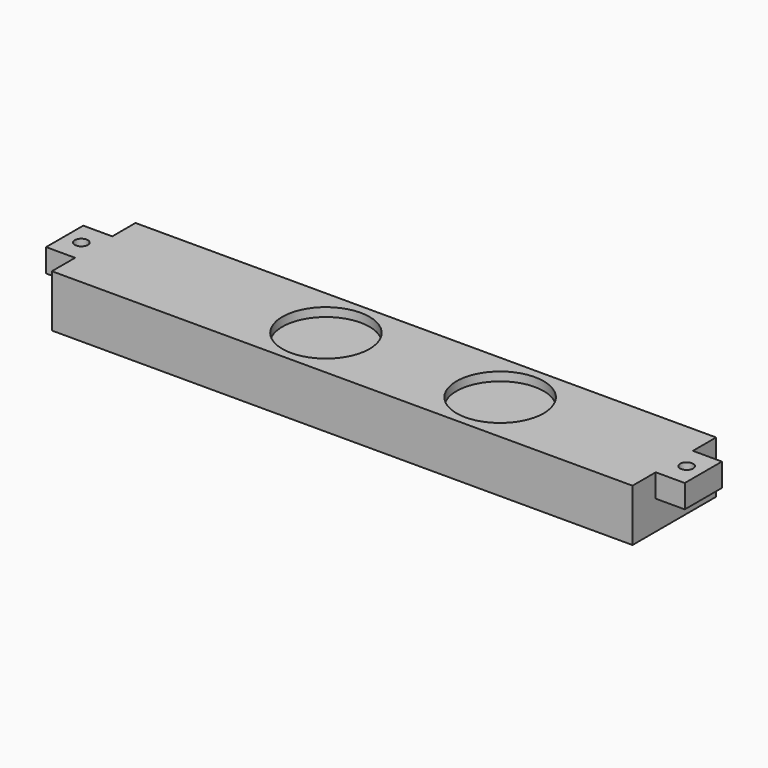
from build123d import *

# Parameters (mm, degrees)
F0_W     = 200
F0_H     = 36
F1_DEPTH = 18
F2_R     = 15
F3_DEPTH = 3
F4_W     = 10
F4_H     = 16
F4_R     = 2.25
F5_DEPTH = 8


with BuildPart() as f1:
    # F0 (on Top) → F1 (new body)
    with BuildSketch(Plane.XY):
        Rectangle(F0_W, F0_H)
    extrude(amount=F1_DEPTH)

    # F2 (on face) → F3 (cut)
    with BuildSketch(Plane.XY.offset(18)):
        with Locations((-20, 0)):
            Circle(F2_R)
        with Locations((40, 0)):
            Circle(F2_R)
    extrude(amount=-F3_DEPTH, mode=Mode.SUBTRACT)

    # F4 (on face) → F5 (join)
    with BuildSketch(Plane.XY.offset(18)):
        with Locations((-105, 0)):
            Rectangle(F4_W, F4_H)
        with Locations((-104.25, 0)):
            Circle(F4_R, mode=Mode.SUBTRACT)
        with Locations((105, 0)):
            Rectangle(F4_W, F4_H)
        with Locations((104.25, 0)):
            Circle(F4_R, mode=Mode.SUBTRACT)
    extrude(amount=-F5_DEPTH)


solid = f1.part
